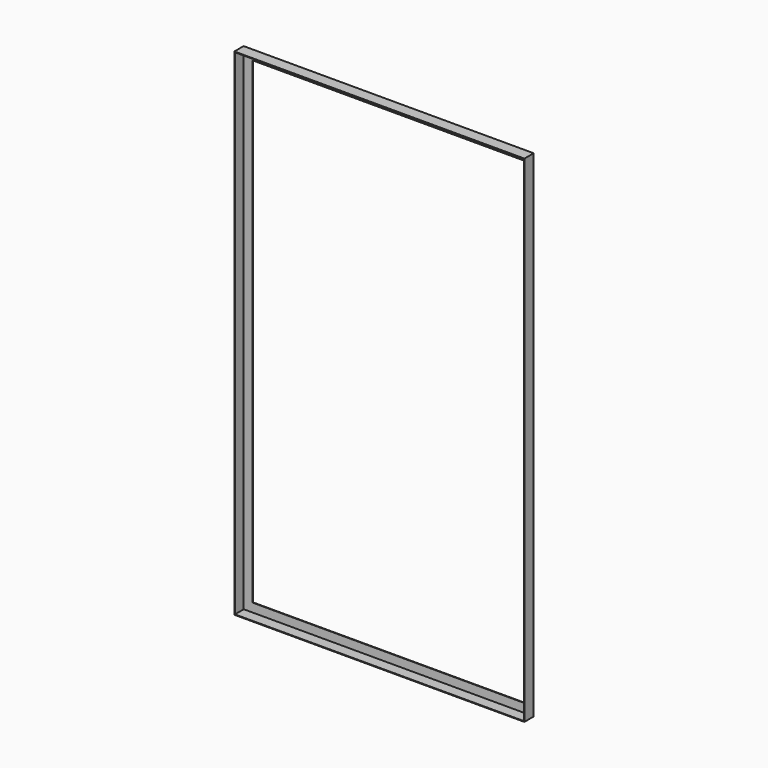
from build123d import *

# Parameters (mm, degrees)
F0_W     = 1000
F0_H     = 1710
F1_DEPTH = 40
F0_W_2   = 30
F0_H_2   = 30
F0_W_3   = 936
F0_H_3   = 1646
F2_DEPTH = 2


with BuildPart() as f1:
    # F0 (on Front) → F1 (new body)
    with BuildSketch(Plane.XZ):
        with Locations((459.7794299543, -895)):
            Rectangle(F0_W, F0_H)
        Polygon((-38.2205700457, -72), (-38.2205700457, -42), (-8.2205700457, -42), (927.7794299543, -42), (957.7794299543, -42), (957.7794299543, -72), (957.7794299543, -1718), (957.7794299543, -1748), (927.7794299543, -1748), (-8.2205700457, -1748), (-38.2205700457, -1748), (-38.2205700457, -1718), align=None, mode=Mode.SUBTRACT)
    extrude(amount=F1_DEPTH)

    # F0 (on Front) → F2 (join)
    with BuildSketch(Plane.XZ):
        with Locations((942.7794299543, -57)):
            Rectangle(F0_W_2, F0_H_2)
        with Locations((459.7794299543, -57)):
            Rectangle(F0_W_3, F0_H_2)
        with Locations((942.7794299543, -895)):
            Rectangle(F0_W_2, F0_H_3)
        with Locations((-23.2205700457, -57)):
            Rectangle(F0_W_2, F0_H_2)
        with Locations((-23.2205700457, -895)):
            Rectangle(F0_W_2, F0_H_3)
        with Locations((-23.2205700457, -1733)):
            Rectangle(F0_W_2, F0_H_2)
        with Locations((459.7794299543, -1733)):
            Rectangle(F0_W_3, F0_H_2)
        with Locations((942.7794299543, -1733)):
            Rectangle(F0_W_2, F0_H_2)
    extrude(amount=F2_DEPTH)


solid = f1.part
